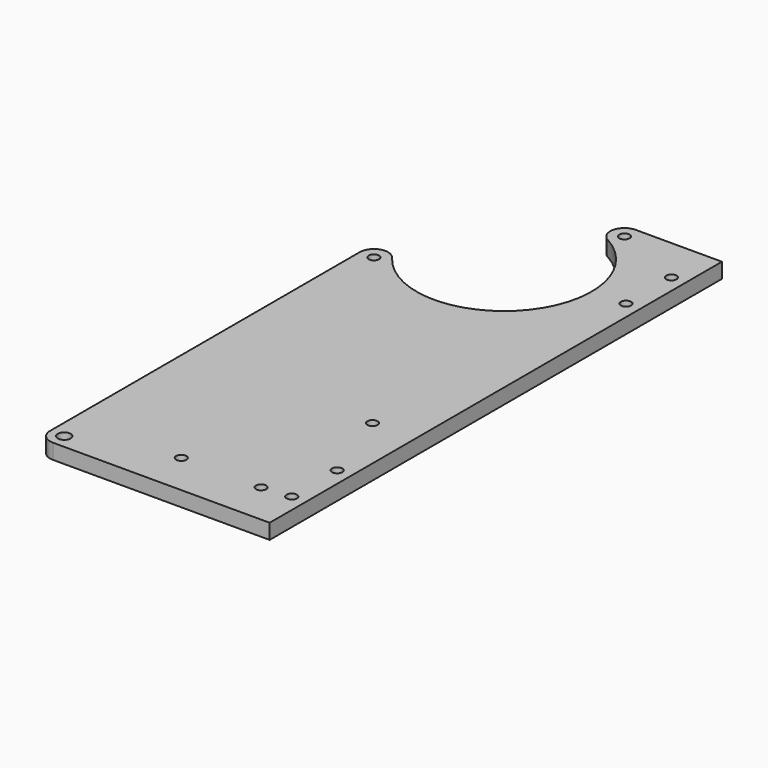
from build123d import *

# Parameters (mm, degrees)
F0_R     = 2.15265
F0_R_2   = 1.7272
F1_DEPTH = 5.08


with BuildPart() as f1:
    # F0 (on Top) → F1 (new body)
    with BuildSketch(Plane.XY):
        with BuildLine():
            Line((-27.335439, -155.127837), (45.423403, -155.127837))
            Line((45.423403, -155.127837), (45.423403, 34.62922))
            Line((45.423403, 34.62922), (16.520329, 34.62922))
            ThreePointArc((16.520329, 34.62922), (11.908991, 31.057083), (14.215167, 25.699271))
            ThreePointArc((14.215167, 25.699271), (22.137301, -19.29931), (-23.521192, -17.586273))
            ThreePointArc((-23.521192, -17.586273), (-28.838113, -15.918878), (-32.097939, -20.438101))
            Line((-32.097939, -20.438101), (-32.097939, -150.365337))
            ThreePointArc((-32.097939, -150.365337), (-30.703035, -153.732933), (-27.335439, -155.127837))
        make_face()
        with Locations((-27.335439, -150.365337)):
            Circle(F0_R, mode=Mode.SUBTRACT)
        with Locations((4.338903, -140.840337)):
            Circle(F0_R_2, mode=Mode.SUBTRACT)
        with Locations((31.135903, -140.840337)):
            Circle(F0_R_2, mode=Mode.SUBTRACT)
        with Locations((40.660903, -139.887837)):
            Circle(F0_R_2, mode=Mode.SUBTRACT)
        with Locations((40.660903, -120.837837)):
            Circle(F0_R_2, mode=Mode.SUBTRACT)
        with Locations((31.135903, -94.114954)):
            Circle(F0_R_2, mode=Mode.SUBTRACT)
        with Locations((-27.335439, -20.438101)):
            Circle(F0_R_2, mode=Mode.SUBTRACT)
        with Locations((16.520329, 29.86672)):
            Circle(F0_R_2, mode=Mode.SUBTRACT)
        with Locations((40.660903, 0.33922)):
            Circle(F0_R_2, mode=Mode.SUBTRACT)
        with Locations((40.660903, 19.38922)):
            Circle(F0_R_2, mode=Mode.SUBTRACT)
    extrude(amount=F1_DEPTH)


solid = f1.part
